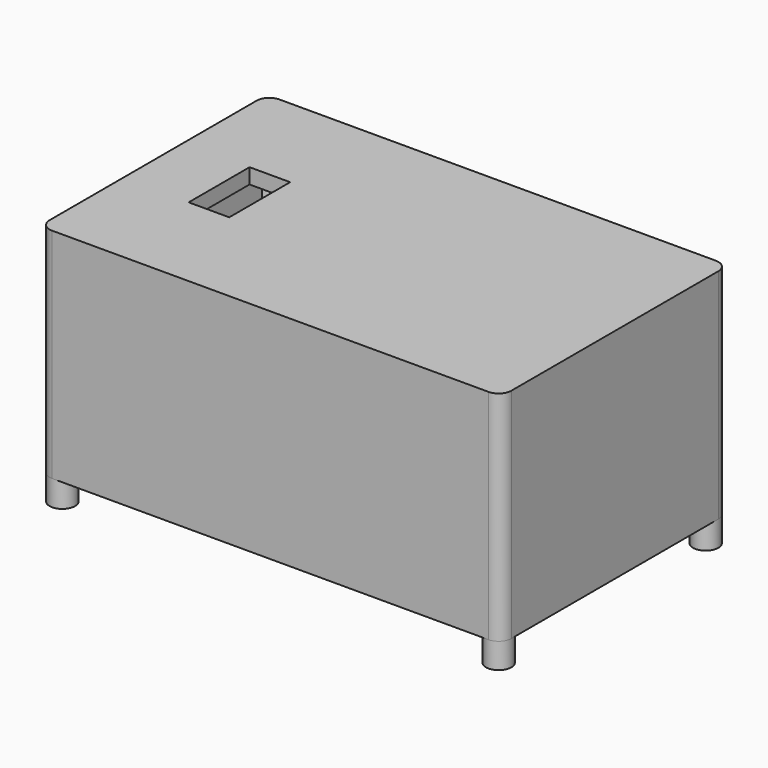
from build123d import *

# Parameters (mm, degrees)
PAD009_DEPTH            = 43
SKETCH022_W             = 85
SKETCH022_H             = 50
SKETCH022_W_2           = 8
SKETCH022_H_2           = 15
PAD010_DEPTH            = 3
SKETCH002_R             = 2.5
PAD011_DEPTH            = 48
BODY009_PLACEMENT_ANGLE = 90


with BuildPart() as part:
    # Sketch021 → Pad009 (new body)
    with BuildSketch(Plane.XZ):
        with BuildLine():
            Line((-43, 28), (43, 28))
            ThreePointArc((45.5, 25.5), (44.767767, 27.267767), (43, 28))
            Line((45.5, 25.5), (45.5, -25.5))
            ThreePointArc((43, -28), (44.767767, -27.267767), (45.5, -25.5))
            Line((43, -28), (-43, -28))
            ThreePointArc((-45.5, -25.5), (-44.767767, -27.267767), (-43, -28))
            Line((-45.5, -25.5), (-45.5, 25.5))
            ThreePointArc((-43, 28), (-44.767767, 27.267767), (-45.5, 25.5))
        make_face()
        with BuildLine():
            Line((-40.55051, 25), (40.55051, 25))
            ThreePointArc((40.55051, 25), (41.232233, 23.732233), (42.5, 23.05051))
            Line((42.5, 23.05051), (42.5, -23.05051))
            ThreePointArc((42.5, -23.05051), (41.232233, -23.732233), (40.55051, -25))
            Line((40.55051, -25), (-40.55051, -25))
            ThreePointArc((-40.55051, -25), (-41.232233, -23.732233), (-42.5, -23.05051))
            Line((-42.5, -23.05051), (-42.5, 23.05051))
            ThreePointArc((-42.5, 23.05051), (-41.232233, 23.732233), (-40.55051, 25))
        make_face(mode=Mode.SUBTRACT)
    extrude(amount=PAD009_DEPTH)

    # Sketch022 → Pad010 (join)
    with BuildSketch(Plane.XZ):
        Rectangle(SKETCH022_W, SKETCH022_H)
        with Locations((-28.5, 0)):
            Rectangle(SKETCH022_W_2, SKETCH022_H_2, mode=Mode.SUBTRACT)
    extrude(amount=PAD010_DEPTH)

    # Sketch002 → Pad011 (join)
    with BuildSketch(Plane.XZ):
        with Locations((-43, 25.5)):
            Circle(SKETCH002_R)
        with Locations((43, 25.5)):
            Circle(SKETCH002_R)
        with Locations((43, -25.5)):
            Circle(SKETCH002_R)
        with Locations((-43, -25.5)):
            Circle(SKETCH002_R)
    extrude(amount=PAD011_DEPTH)


with BuildPart() as part_1:
    # Body009 placement: moved
    add(part.part.moved(Location((0, 0, 48))).rotate(Axis((0, 0, 48), (1, 0, 0)), BODY009_PLACEMENT_ANGLE))


solid = part_1.part
